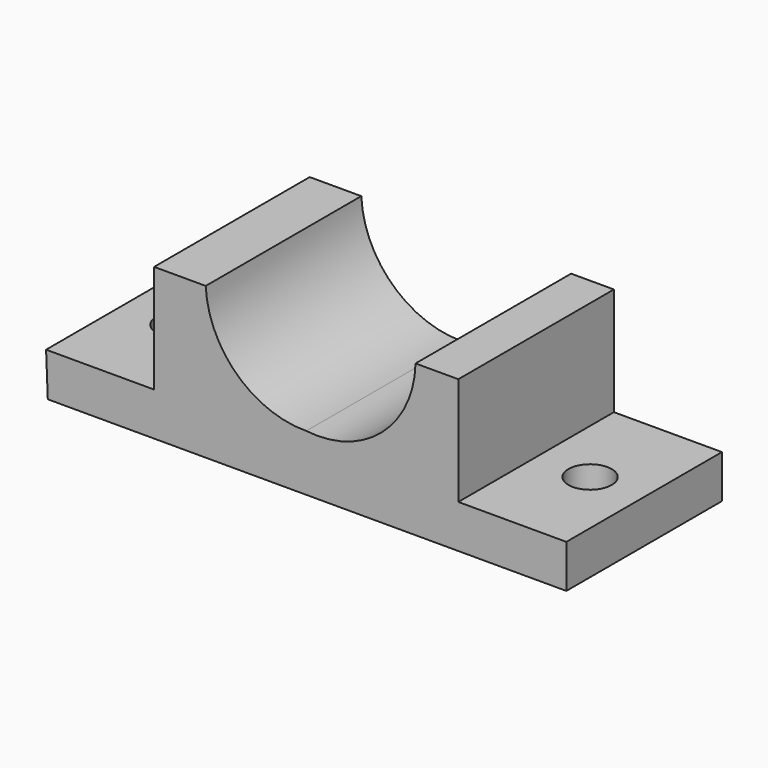
from build123d import *

# Parameters (mm, degrees)
F1_DEPTH = 22.5
F2_R     = 2.5
F3_DEPTH = 5.001
F4_R     = 2.5
F5_DEPTH = 5.001
F7_DEPTH = 22.501


with BuildPart() as f1:
    # F0 (on Front) → F1 (new body)
    with BuildSketch(Plane.XZ):
        Polygon((-18.470997, -15.365735), (-18.272383, -20.357819), (41.727616, -20.365735), (41.727616, -15.365735), (29.227616, -15.365735), (29.227616, -2.865735), (-5.970997, -2.865735), (-5.970997, -15.365735), align=None)
    extrude(amount=F1_DEPTH)

    # F2 (on face) → F3 (cut, through all)
    with BuildSketch(Plane.XY.offset(-15.365735)):
        with Locations((35.477616, -11.25)):
            Circle(F2_R)
    extrude(amount=-F3_DEPTH, mode=Mode.SUBTRACT)

    # F4 (on face) → F5 (cut, through all)
    with BuildSketch(Plane.XY.offset(-15.365735)):
        with Locations((-12.220997, -11.25)):
            Circle(F4_R)
    extrude(amount=-F5_DEPTH, mode=Mode.SUBTRACT)

    # F6 (on face) → F7 (cut, through all)
    with BuildSketch(Plane.XZ.offset(22.5)):
        with BuildLine():
            ThreePointArc((0, -2.865735), (3.599998, -10.703488), (11.62831, -13.855716))
            ThreePointArc((11.62831, -13.855716), (20.377936, -11.151829), (24.277631, -2.865735))
            Line((24.277631, -2.865735), (11.62831, -2.865735))
            Line((11.62831, -2.865735), (0, -2.865735))
        make_face()
    extrude(amount=-F7_DEPTH, mode=Mode.SUBTRACT)


solid = f1.part
